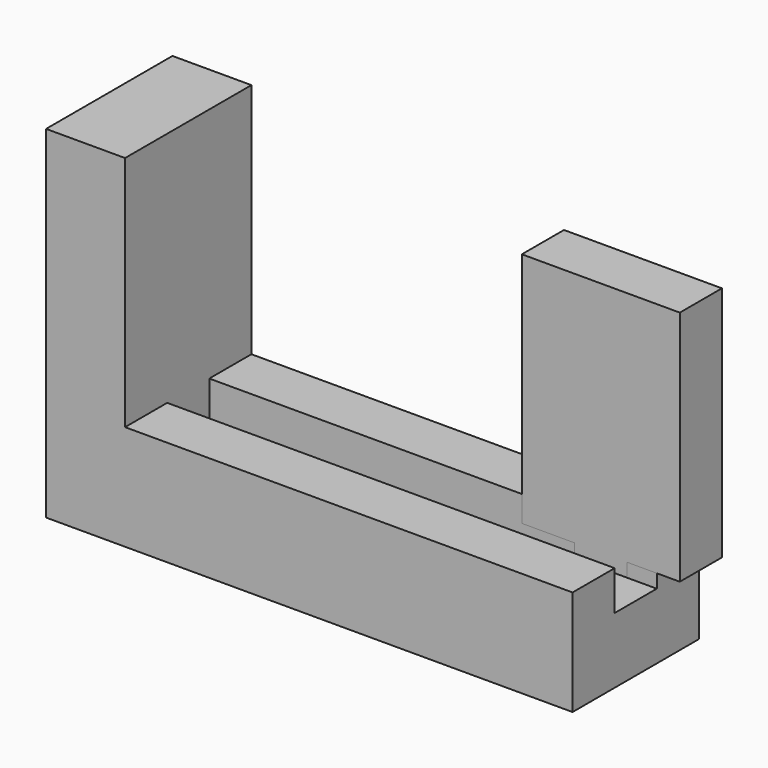
from build123d import *

# Parameters (mm, degrees)
F1_DEPTH = 30
F3_DEPTH = 10
F4_W     = 10
F4_H     = 7.5
F5_DEPTH = 85


with BuildPart() as f1:
    # F0 (on Front) → F1 (new body)
    with BuildSketch(Plane.XZ):
        Polygon((-33.864659, 38.752251), (-48.864659, 38.752251), (-48.864659, -26.247749), (51.135341, -26.247749), (51.135341, -6.247749), (-33.864659, -6.247749), align=None)
    extrude(amount=F1_DEPTH)

    # F4 (on face) → F5 (cut)
    with BuildSketch(Plane.YZ.offset(51.135341)):
        with Locations((-15, -9.997749)):
            Rectangle(F4_W, F4_H)
    extrude(amount=-F5_DEPTH, mode=Mode.SUBTRACT)


with BuildPart() as f3:
    # F2 (on Front) → F3 (new body)
    with BuildSketch(Plane.XZ):
        Polygon((55.508092, 33.837681), (25.508092, 33.837681), (25.508092, -11.162319), (35.508092, -11.162319), (35.508092, -18.662319), (45.508092, -18.662319), (45.508092, -11.162319), (55.508092, -11.162319), align=None)
    extrude(amount=F3_DEPTH)


solid = Compound([f1.part, f3.part])
